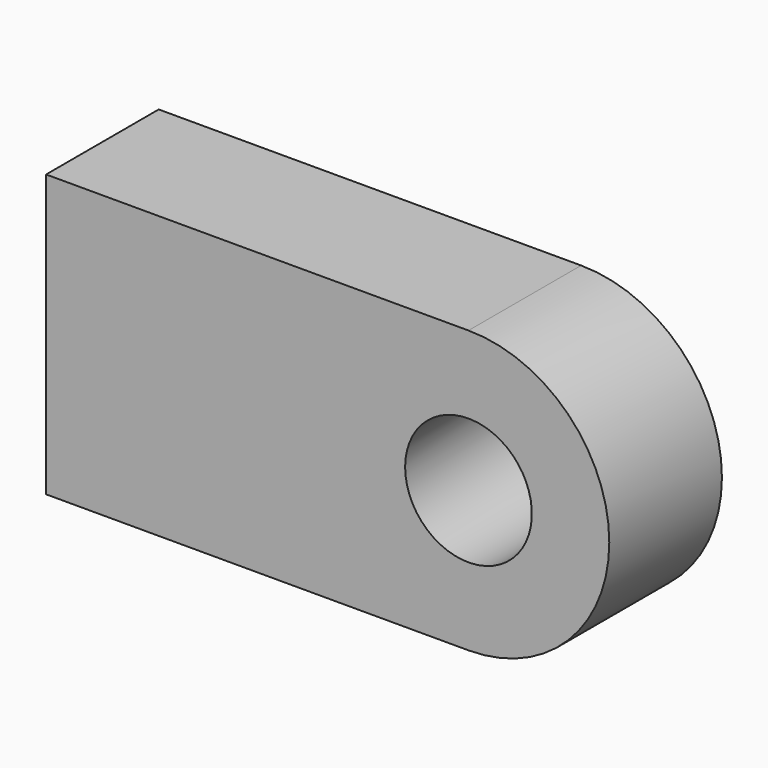
from build123d import *

# Parameters (mm, degrees)
CYLINDER001_R     = 1.8
CYLINDER001_DEPTH = 30
CYLINDER_R        = 4
CYLINDER_DEPTH    = 4
BOX008_W          = 12
BOX008_H          = 4
BOX008_DEPTH      = 8


with BuildPart() as cylinder001:
    # Cylinder001 → Cylinder001 (new body)
    with BuildSketch(Plane(origin=(0, 0, 4), x_dir=(1, 0, 0), z_dir=(0, 1, 0))):
        Circle(CYLINDER001_R)
    extrude(amount=CYLINDER001_DEPTH)


with BuildPart() as cylinder:
    # Cylinder → Cylinder (new body)
    with BuildSketch(Plane(origin=(0, 0, 4), x_dir=(1, 0, 0), z_dir=(0, 1, 0))):
        Circle(CYLINDER_R)
    extrude(amount=CYLINDER_DEPTH)


with BuildPart() as ear:
    # Box008 → Box008 (new body)
    with BuildSketch(Plane.XY):
        with Locations((6, 2)):
            Rectangle(BOX008_W, BOX008_H)
    extrude(amount=BOX008_DEPTH)

    # Fusion: union Cylinder
    add(cylinder.part)

    # Cut: cut Cylinder001
    add(cylinder001.part, mode=Mode.SUBTRACT)


with BuildPart() as ear_1:
    # Cut placement: moved
    add(ear.part.moved(Location((-12, 51, -2))))


with BuildPart() as part_mirroring:
    # Part__Mirroring: instance of ear
    add(ear_1.part.mirror(Plane(origin=(32.4, 0, 0), x_dir=(0, -1, 0), z_dir=(1, 0, 0))))


solid = part_mirroring.part
